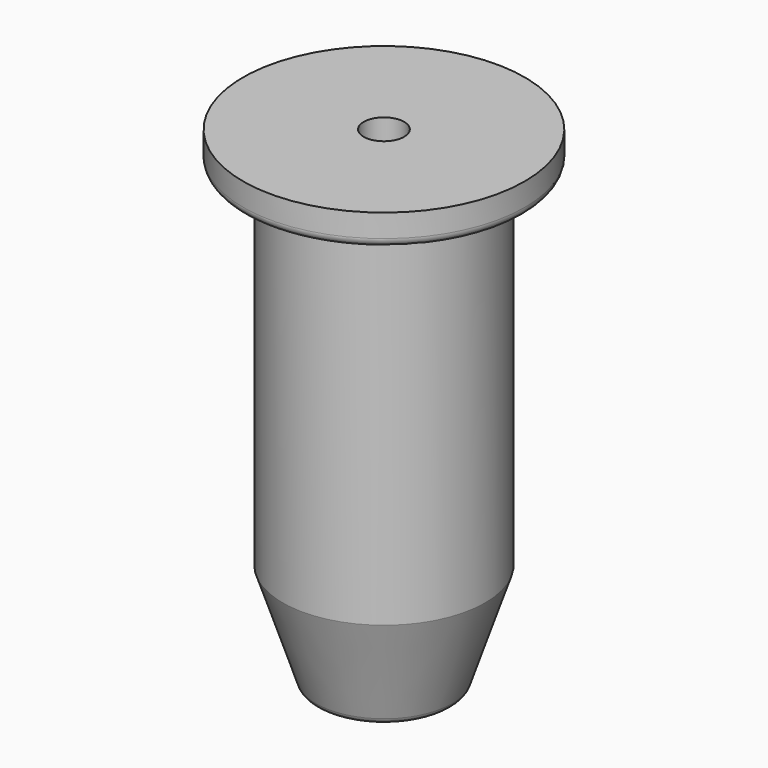
from build123d import *

# Parameters (mm, degrees)
F2_R     = 0.5
F3_SIZE2 = 2
F3_SIZE  = 6
F4_R     = 0.5
F6_D     = 2.3
F7_R     = 0.5


with BuildPart() as f1:
    # F0 (on Front) → F1 (revolve)
    with BuildSketch(Plane.XZ):
        Polygon((8, 27.8), (0, 27.8), (0, 0), (5.75, 0), (5.75, 26), (8, 26), align=None)
    revolve(axis=Axis((0, 0, 13.9), (0, 0, -1)))

    # F2
    f2_edges = [f1.edges().sort_by_distance(p)[0] for p in [
        (-5.75, 0, 26),
    ]]
    fillet(f2_edges, radius=F2_R)

    # F3
    f3_edges = [f1.edges().sort_by_distance(p)[0] for p in [
        (-5.75, 0, 0),
    ]]
    chamfer(f3_edges, length=F3_SIZE, length2=F3_SIZE2)

    # F4
    f4_edges = [f1.edges().sort_by_distance(p)[0] for p in [
        (-3.75, 0, 0),
    ]]
    fillet(f4_edges, radius=F4_R)

    # F6 (through all)
    with Locations(Plane.XY.offset(27.8)):
        with Locations((0, 0)):
            Hole(F6_D / 2)

    # F7
    f7_edges = [f1.edges().sort_by_distance(p)[0] for p in [
        (-8, 0, 26),
    ]]
    fillet(f7_edges, radius=F7_R)


solid = f1.part
